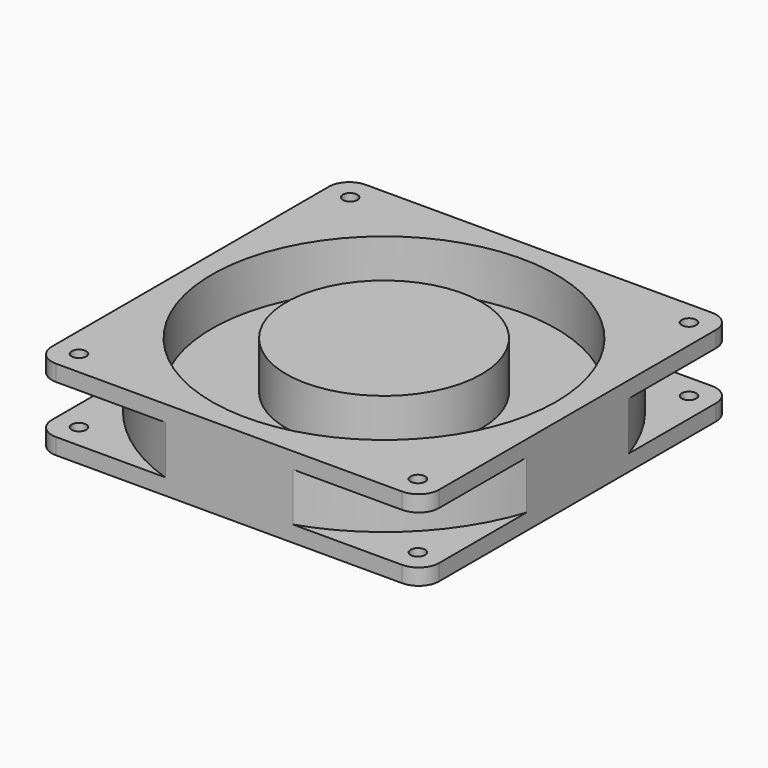
from build123d import *

# Parameters (mm, degrees)
F0_W     = 120
F0_H     = 120
F1_DEPTH = 25
F3_D     = 4.5
F4_R     = 53.34
F4_R_2   = 30.25
F5_DEPTH = 14.732
F6_R     = 6.35
F9_W     = 19.05
F9_H     = 15


with BuildPart() as f1:
    # F0 (on Top) → F1 (new body)
    with BuildSketch(Plane.XY):
        Rectangle(F0_W, F0_H)
    extrude(amount=-F1_DEPTH)

    # F3 (through all)
    with Locations(Plane.XY):
        with Locations((-52.5, -52.5), (52.5, -52.5), (52.5, 52.5), (-52.5, 52.5)):
            Hole(F3_D / 2)

    # F4 (on face) → F5 (cut)
    with BuildSketch(Plane.XY):
        Circle(F4_R)
        Circle(F4_R_2, mode=Mode.SUBTRACT)
    extrude(amount=-F5_DEPTH, mode=Mode.SUBTRACT)

    # F6
    f6_edges = [f1.edges().sort_by_distance(p)[0] for p in [
        (60, -60, -12.5),
        (-60, -60, -12.5),
        (60, 60, -12.5),
        (-60, 60, -12.5),
    ]]
    fillet(f6_edges, radius=F6_R)

    # F9 (on face) → F10 (revolve, cut)
    with BuildSketch(Plane(origin=(0, 0, 0), x_dir=(-0.7071067812, 0.7071067812, 0), z_dir=(0.7071067812, 0.7071067812, 0))):
        with Locations((-72.6975576213, -12.5)):
            Rectangle(F9_W, F9_H)
    revolve(axis=Axis((0, 0, 0), (0, 0, 1)), mode=Mode.SUBTRACT)


solid = f1.part
